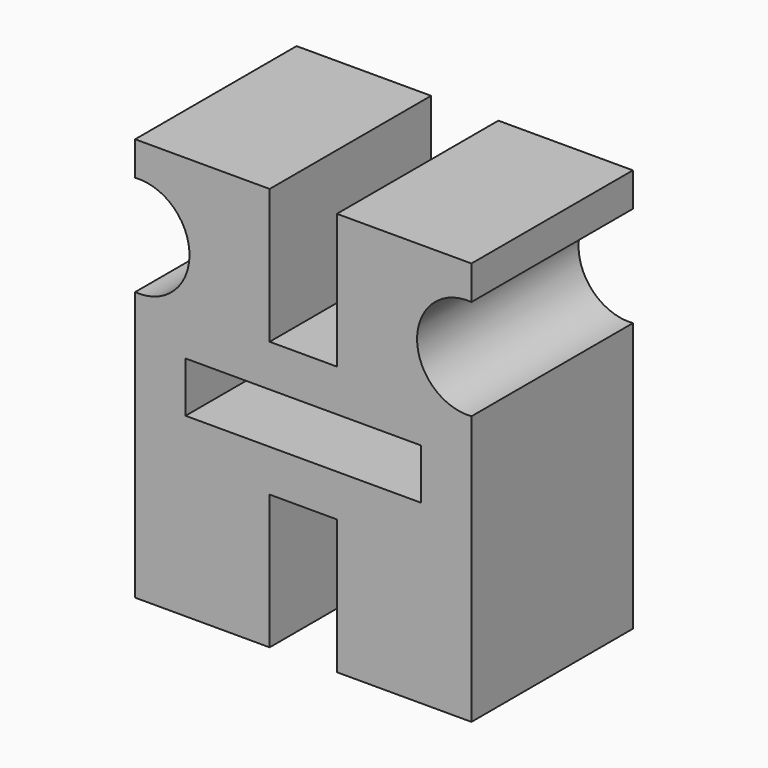
from build123d import *

# Parameters (mm, degrees)
F1_DEPTH = 60
F2_W     = 70
F2_H     = 15
F3_DEPTH = 50
F4_R     = 15
F5_R     = 15
F6_DEPTH = 67.5


with BuildPart() as f1:
    # F0 (on Front) → F1 (new body)
    with BuildSketch(Plane.XZ):
        with BuildLine():
            Line((-8.039089, 59.247605), (-48.039089, 59.247605))
            Line((-48.039089, 59.247605), (-48.039089, 49.157878))
            ThreePointArc((-48.039089, 49.157878), (-31.879825, 34.202742), (-48.039089, 19.247605))
            Line((-48.039089, 19.247605), (-48.039089, -60.752395))
            Line((-48.039089, -60.752395), (-8.039089, -60.752395))
            Line((-8.039089, -60.752395), (-8.039089, -20.752395))
            Line((-8.039089, -20.752395), (11.960911, -20.752395))
            Line((11.960911, -20.752395), (11.960911, -60.752395))
            Line((11.960911, -60.752395), (51.960911, -60.752395))
            Line((51.960911, -60.752395), (51.960911, 19.247605))
            ThreePointArc((51.960911, 19.247605), (35.801647, 34.202742), (51.960911, 49.157878))
            Line((51.960911, 49.157878), (51.960911, 59.247605))
            Line((51.960911, 59.247605), (11.960911, 59.247605))
            Line((11.960911, 59.247605), (11.960911, 19.247605))
            Line((11.960911, 19.247605), (-8.039089, 19.247605))
            Line((-8.039089, 19.247605), (-8.039089, 59.247605))
        make_face()
    extrude(amount=F1_DEPTH)

    # F2 (on face) → F3 (cut)
    with BuildSketch(Plane.XZ.offset(60)):
        with Locations((1.960911, -0.752395)):
            Rectangle(F2_W, F2_H)
    extrude(amount=-F3_DEPTH, mode=Mode.SUBTRACT)

    # F4 (on face) + F5 (on face) → F6 (cut)
    with BuildSketch(Plane(origin=(0, 0, -60.752395), x_dir=(1, 0, 0), z_dir=(0, 0, -1))):
        with Locations((-28.039089, 20)):
            Circle(F4_R)
    with BuildSketch(Plane(origin=(0, 0, -60.752395), x_dir=(1, 0, 0), z_dir=(0, 0, -1))):
        with Locations((31.960911, 20)):
            Circle(F5_R)
    extrude(amount=-F6_DEPTH, mode=Mode.SUBTRACT)


solid = f1.part
